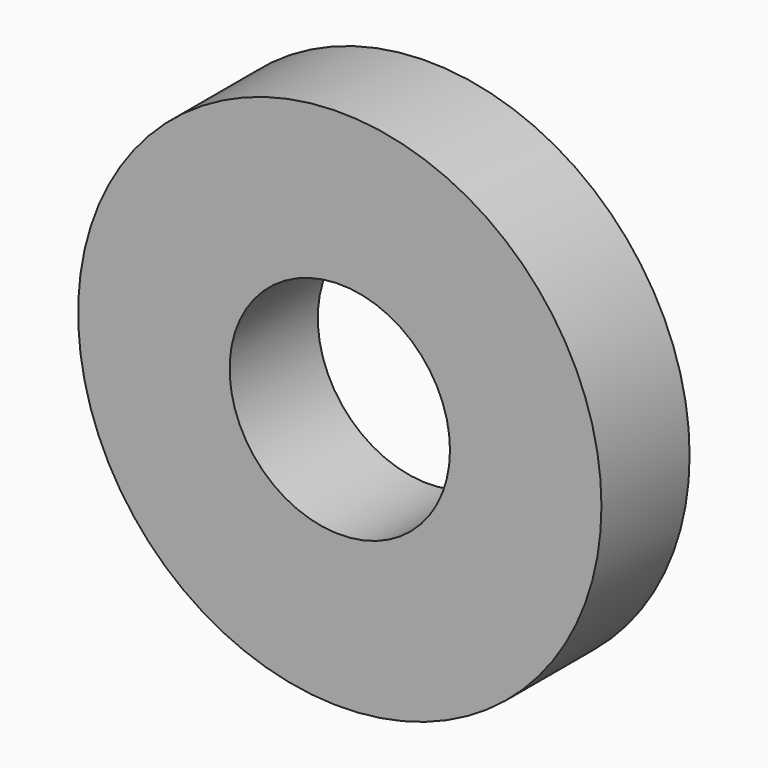
from build123d import *

# Parameters (mm, degrees)
F0_R     = 60.320466
F0_R_2   = 25.4
F1_DEPTH = 10.16
F2_DEPTH = 12.7


with BuildPart() as f1:
    # F0 (on Front) → F1 (new body)
    with BuildSketch(Plane.XZ):
        Circle(F0_R)
        Circle(F0_R_2, mode=Mode.SUBTRACT)
    extrude(amount=F1_DEPTH)

    # F0 (on Front) → F2 (join, symmetric)
    with BuildSketch(Plane.XZ):
        Circle(F0_R)
        Circle(F0_R_2, mode=Mode.SUBTRACT)
    extrude(amount=F2_DEPTH, both=True)


solid = f1.part
